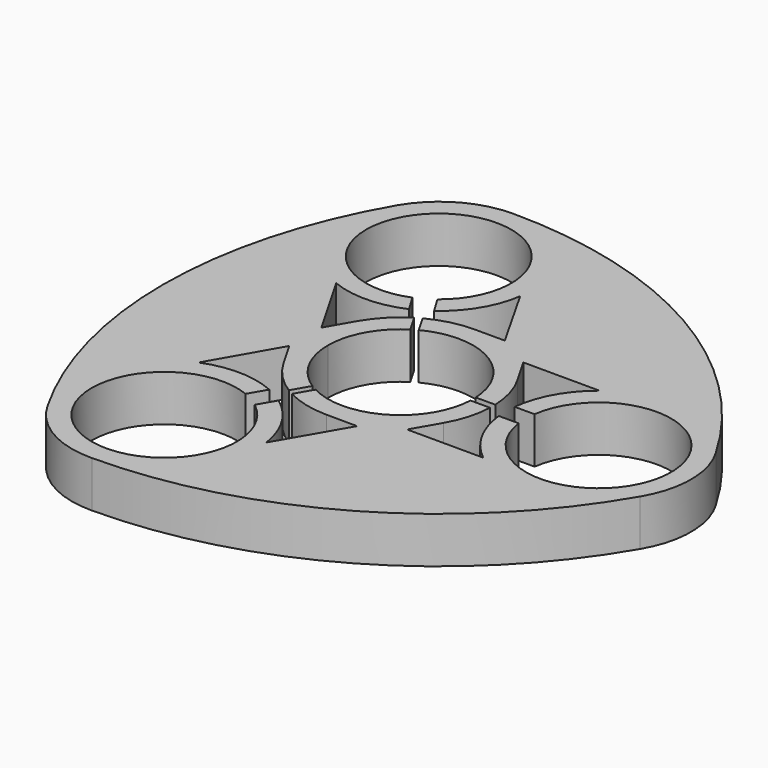
from build123d import *

# Parameters (mm, degrees)
F1_DEPTH = 7


with BuildPart() as f1:
    # F0 (on Top) → F1 (new body)
    with BuildSketch(Plane.XY):
        with BuildLine():
            ThreePointArc((16.89919, 52.010391), (10.231369, 36.021395), (7.956455, 18.847793))
            ThreePointArc((7.956455, 18.847793), (10.176788, 1.877889), (16.688307, -13.949545))
            ThreePointArc((16.688307, -13.949545), (21.916728, -19.257324), (29.127611, -21.13138))
            ThreePointArc((29.127611, -21.13138), (61.896865, -12.294717), (85.934267, 11.665958))
            ThreePointArc((85.934267, 11.665958), (87.916728, 18.847793), (85.934267, 26.029629))
            ThreePointArc((85.934267, 26.029629), (61.756138, 50.111193), (28.77906, 58.887066))
            ThreePointArc((28.77906, 58.887066), (21.938501, 57.00461), (16.89919, 52.010391))
        make_face()
        with BuildLine():
            ThreePointArc((32.916728, 18.847793), (34.267878, 24.12981), (37.9894, 28.114226))
            Line((37.9894, 28.114226), (36.465953, 30.752916))
            ThreePointArc((36.465953, 30.752916), (33.829532, 28.625544), (31.781291, 25.927185))
            Line((31.781291, 25.927185), (29.478451, 21.923404))
            Line((29.478451, 21.923404), (23.716056, 31.904166))
            ThreePointArc((23.716056, 31.904166), (29.182603, 30.890033), (34.612802, 32.083573))
            Line((34.612802, 32.083573), (33.066314, 34.641262))
            ThreePointArc((33.066314, 34.641262), (23.416728, 54.354835), (35.66439, 36.141262))
            Line((35.66439, 36.141262), (37.210878, 33.583573))
            ThreePointArc((37.210878, 33.583573), (40.948538, 37.671052), (42.808541, 42.888136))
            Line((42.808541, 42.888136), (48.493562, 32.869938))
            Line((48.493562, 32.869938), (43.874762, 32.873962))
            ThreePointArc((43.874762, 32.873962), (40.504687, 32.462287), (37.332809, 31.251476))
            Line((37.332809, 31.251476), (38.855426, 28.614226))
            ThreePointArc((38.855426, 28.614226), (49.416728, 28.374073), (54.905359, 19.347793))
            Line((54.905359, 19.347793), (57.866741, 19.347793))
            ThreePointArc((57.866741, 19.347793), (57.334459, 22.725785), (55.999117, 25.873962))
            Line((55.999117, 25.873962), (53.689716, 29.873962))
            Line((53.689716, 29.873962), (65.256474, 29.847793))
            ThreePointArc((65.256474, 29.847793), (61.668348, 25.628441), (59.997317, 20.347793))
            Line((59.997317, 20.347793), (63.019481, 20.347793))
            ThreePointArc((63.019481, 20.347793), (84.916728, 18.847793), (63.019481, 17.347793))
            Line((63.019481, 17.347793), (59.997317, 17.347793))
            ThreePointArc((59.997317, 17.347793), (61.668348, 12.067146), (65.256474, 7.847793))
            Line((65.256474, 7.847793), (53.696309, 7.870162))
            Line((53.696309, 7.870162), (55.999117, 11.873962))
            ThreePointArc((55.999117, 11.873962), (57.327231, 14.99697), (57.864871, 18.347793))
            Line((57.864871, 18.347793), (54.905359, 18.347793))
            ThreePointArc((54.905359, 18.347793), (49.416728, 9.321514), (38.855426, 9.08136))
            Line((38.855426, 9.08136), (37.355973, 6.484232))
            ThreePointArc((37.355973, 6.484232), (40.517398, 5.28249), (43.874762, 4.873962))
            Line((43.874762, 4.873962), (48.535531, 4.847793))
            Line((48.535531, 4.847793), (42.773135, -5.132969))
            ThreePointArc((42.773135, -5.132969), (40.913132, 0.084116), (37.175472, 4.171595))
            Line((37.175472, 4.171595), (35.66439, 1.554324))
            ThreePointArc((35.66439, 1.554324), (23.416728, -16.659248), (33.066314, 3.054324))
            Line((33.066314, 3.054324), (34.577396, 5.671595))
            ThreePointArc((34.577396, 5.671595), (29.168705, 6.864763), (23.720576, 5.867031))
            Line((23.720576, 5.867031), (29.441005, 15.873962))
            Line((29.441005, 15.873962), (31.750406, 11.873962))
            ThreePointArc((31.750406, 11.873962), (33.817227, 9.135071), (36.488181, 6.981173))
            Line((36.488181, 6.981173), (37.9894, 9.58136))
            ThreePointArc((37.9894, 9.58136), (34.267878, 13.565777), (32.916728, 18.847793))
        make_face(mode=Mode.SUBTRACT)
    extrude(amount=F1_DEPTH)


solid = f1.part
